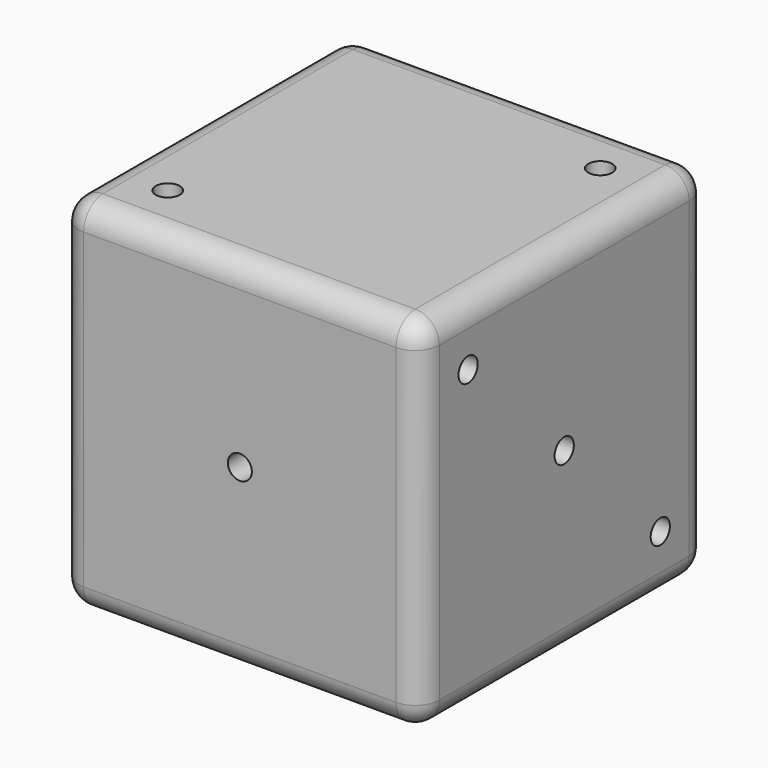
from build123d import *

# Parameters (mm, degrees)
F0_W      = 30
F0_H      = 30
F1_DEPTH  = 15
F3_ANGLE  = 270
F4_R      = 2
F5_R      = 1
F6_DEPTH  = 2
F7_R      = 1
F8_DEPTH  = 2
F10_DEPTH = 2
F11_R     = 1
F12_DEPTH = 2
F13_R     = 1
F14_DEPTH = 2
F15_R     = 1
F16_DEPTH = 2


with BuildPart() as f1:
    # F0 (on Front) → F1 (new body, symmetric)
    with BuildSketch(Plane.XZ):
        Rectangle(F0_W, F0_H)
    extrude(amount=F1_DEPTH, both=True)


with BuildPart() as f1_1:
    # F3: moved
    add(f1.part.rotate(Axis((0, 0.380553, 0), (0, 1, 0)), F3_ANGLE))

    # F4
    f4_edges = [f1_1.edges().sort_by_distance(p)[0] for p in [
        (-15, 0, 15),
        (-15, -15, 0),
        (0, -15, 15),
        (15, -15, 0),
        (15, 0, 15),
        (0, 15, 15),
        (15, 0, -15),
        (0, -15, -15),
        (-15, 0, -15),
        (-15, 15, 0),
        (0, 15, -15),
        (15, 15, 0),
    ]]
    fillet(f4_edges, radius=F4_R)

    # F5 (on face) → F6 (cut)
    with BuildSketch(Plane.XZ.offset(15)):
        Circle(F5_R)
    extrude(amount=-F6_DEPTH, mode=Mode.SUBTRACT)

    # F7 (on face) → F8 (cut)
    with BuildSketch(Plane(origin=(-15, 0, 0), x_dir=(0, -1, 0), z_dir=(-1, 0, 0))):
        with Locations((-10, -10)):
            Circle(F7_R)
        with Locations((10, -10)):
            Circle(F7_R)
        with Locations((10, 10)):
            Circle(F7_R)
        with Locations((-10, 10)):
            Circle(F7_R)
    extrude(amount=-F8_DEPTH, mode=Mode.SUBTRACT)

    # F9 (on face) → F10 (cut)
    with BuildSketch(Plane(origin=(0, 15, 0), x_dir=(-1, 0, 0), z_dir=(0, 1, 0))):
        with BuildLine():
            ThreePointArc((-10, 9), (-9.292893, 9.292893), (-9, 10))
            ThreePointArc((-9, 10), (-10.707107, 10.707107), (-10, 9))
        make_face()
        with BuildLine():
            ThreePointArc((-9, -10), (-9.292893, -9.292893), (-10, -9))
            ThreePointArc((-10, -9), (-10.707107, -10.707107), (-9, -10))
        make_face()
        with BuildLine():
            ThreePointArc((-9, 0), (-9.292893, 0.707107), (-10, 1))
            Line((-10, 1), (-10, -1))
            ThreePointArc((-10, -1), (-9.292893, -0.707107), (-9, 0))
        make_face()
        with BuildLine():
            Line((-10, -1), (-10, 1))
            ThreePointArc((-10, 1), (-11, 0), (-10, -1))
        make_face()
        with BuildLine():
            ThreePointArc((10, -1), (10.707107, -0.707107), (11, 0))
            ThreePointArc((11, 0), (10.707107, 0.707107), (10, 1))
            Line((10, 1), (10, -1))
        make_face()
        with BuildLine():
            ThreePointArc((11, -10), (10.707107, -9.292893), (10, -9))
            ThreePointArc((10, -9), (9.292893, -10.707107), (11, -10))
        make_face()
        with BuildLine():
            ThreePointArc((11, 10), (9.292893, 10.707107), (10, 9))
            ThreePointArc((10, 9), (10.707107, 9.292893), (11, 10))
        make_face()
        with BuildLine():
            Line((10, -1), (10, 1))
            ThreePointArc((10, 1), (9, 0), (10, -1))
        make_face()
    extrude(amount=-F10_DEPTH, mode=Mode.SUBTRACT)

    # F11 (on face) → F12 (cut)
    with BuildSketch(Plane.YZ.offset(15)):
        with Locations((-10, 10)):
            Circle(F11_R)
        with Locations((10, -10)):
            Circle(F11_R)
        Circle(F11_R)
    extrude(amount=-F12_DEPTH, mode=Mode.SUBTRACT)

    # F13 (on face) → F14 (cut)
    with BuildSketch(Plane.XY.offset(15)):
        with Locations((-10, -10)):
            Circle(F13_R)
        with Locations((10, 10)):
            Circle(F13_R)
    extrude(amount=-F14_DEPTH, mode=Mode.SUBTRACT)

    # F15 (on face) → F16 (cut)
    with BuildSketch(Plane(origin=(0, 0, -15), x_dir=(1, 0, 0), z_dir=(0, 0, -1))):
        with Locations((-10, 10)):
            Circle(F15_R)
        with Locations((10, 10)):
            Circle(F15_R)
        with Locations((10, -10)):
            Circle(F15_R)
        with Locations((-10, -10)):
            Circle(F15_R)
        Circle(F15_R)
    extrude(amount=-F16_DEPTH, mode=Mode.SUBTRACT)


solid = f1_1.part
